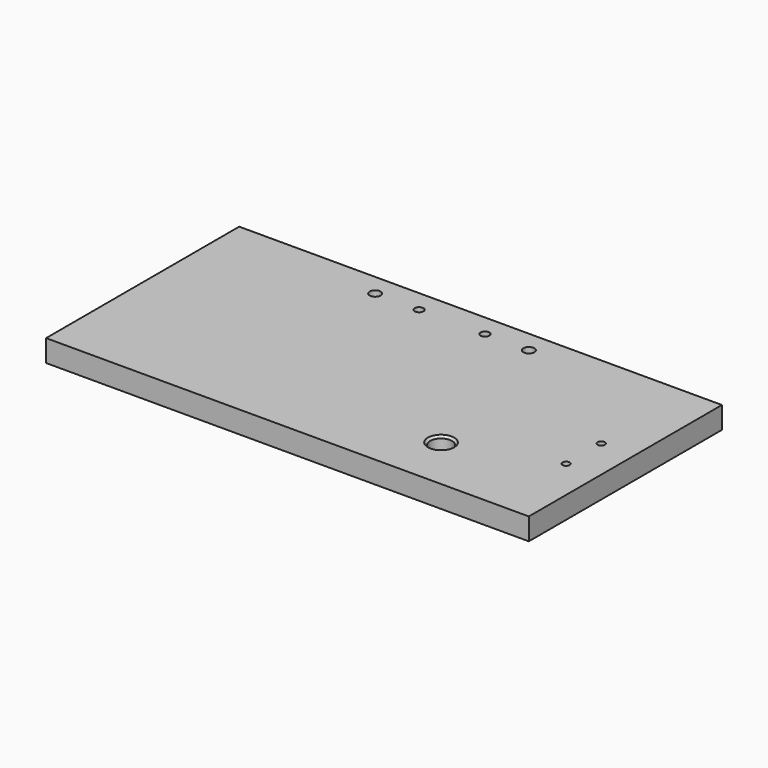
from build123d import *

# Parameters (mm, degrees)
F0_W           = 220
F0_H           = 110
F1_DEPTH       = 10
F2_R           = 5
F2_R_2         = 2
F3_DEPTH       = 10.001
F4_D           = 3.3
F5_D           = 5
F5_CBORE_D     = 8.25
F5_CBORE_DEPTH = 4
F6_SIZE        = 1


with BuildPart() as f1:
    # F0 (on Top) → F1 (new body)
    with BuildSketch(Plane.XY):
        Rectangle(F0_W, F0_H)
    extrude(amount=F1_DEPTH)

    # F2 (on face) → F3 (cut, through all)
    with BuildSketch(Plane(origin=(0, 0, 0), x_dir=(1, 0, 0), z_dir=(0, 0, -1))):
        with Locations((50, 30)):
            Circle(F2_R)
        with Locations((-20, -45)):
            Circle(F2_R_2)
        with Locations((10, -45)):
            Circle(F2_R_2)
    extrude(amount=-F3_DEPTH, mode=Mode.SUBTRACT)

    # F4 (through all)
    with Locations(Plane(origin=(0, 0, 0), x_dir=(1, 0, 0), z_dir=(0, 0, -1))):
        with Locations((95, -5), (95, 15)):
            Hole(F4_D / 2)

    # F5 (through all)
    with Locations(Plane(origin=(0, 0, 0), x_dir=(1, 0, 0), z_dir=(0, 0, -1))):
        with Locations((-40, -45), (30, -45)):
            CounterBoreHole(F5_D / 2, F5_CBORE_D / 2, F5_CBORE_DEPTH)

    # F6
    f6_edges = [f1.edges().sort_by_distance(p)[0] for p in [
        (45, -30, 10),
    ]]
    chamfer(f6_edges, length=F6_SIZE)


solid = f1.part
